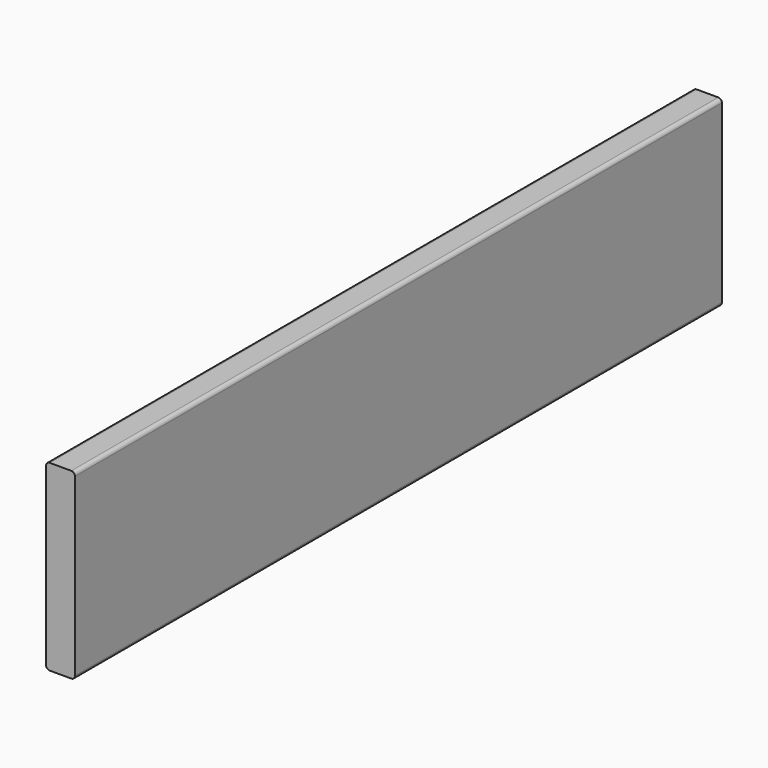
from build123d import *

# Parameters (mm, degrees)
F1_DEPTH = 533.4


with BuildPart() as f1:
    # F0 (on Front) → F1 (new body, symmetric)
    with BuildSketch(Plane.XZ):
        with BuildLine():
            Line((14.224, 120.65), (-14.224, 120.65))
            ThreePointArc((-14.224, 120.65), (-17.636497, 119.236497), (-19.05, 115.824))
            Line((-19.05, 115.824), (-19.05, -115.824))
            ThreePointArc((-19.05, -115.824), (-17.636497, -119.236497), (-14.224, -120.65))
            Line((-14.224, -120.65), (14.224, -120.65))
            ThreePointArc((14.224, -120.65), (17.636497, -119.236497), (19.05, -115.824))
            Line((19.05, -115.824), (19.05, 115.824))
            ThreePointArc((19.05, 115.824), (17.636497, 119.236497), (14.224, 120.65))
        make_face()
    extrude(amount=F1_DEPTH, both=True)


solid = f1.part
